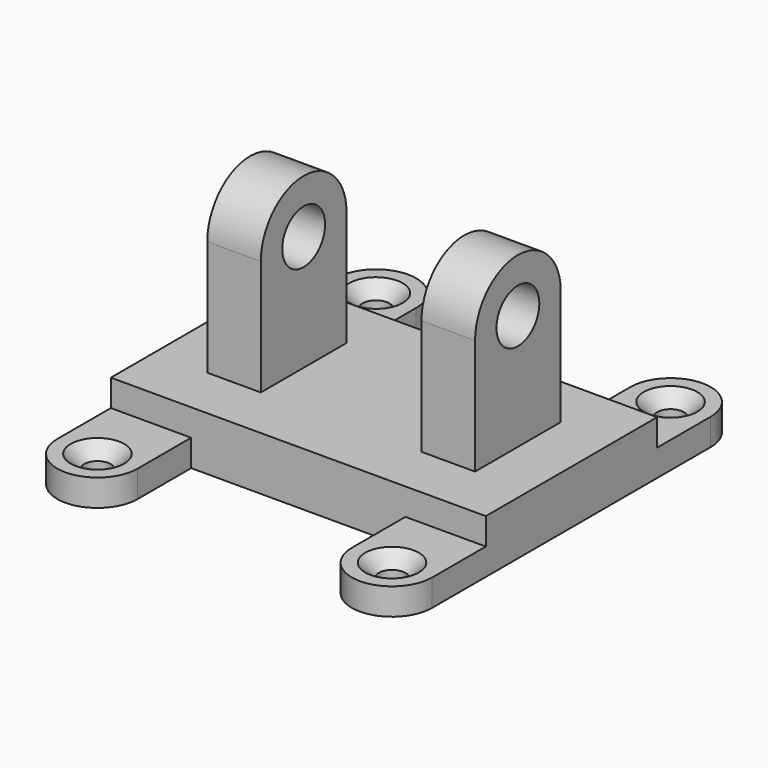
from build123d import *

# Parameters (mm, degrees)
F0_W           = 88.9
F0_H           = 12.7
F1_DEPTH       = 50.8
F2_W           = 19.05
F2_H           = 15.875
F3_DEPTH       = 6.35
F5_START       = 12.7
F4_R           = 6.35
F5_DEPTH       = 63.5
F6_W           = 38.1
F6_H           = 44.45
F7_DEPTH       = 50.8
F9_D           = 6.35
F9_CSINK_D     = 12.7
F9_CSINK_ANGLE = 90


with BuildPart() as f1:
    # F0 (on Front) → F1 (new body)
    with BuildSketch(Plane.XZ):
        with Locations((44.45, 6.35)):
            Rectangle(F0_W, F0_H)
    extrude(amount=F1_DEPTH)

    # F2 (on Top) → F3 (join)
    with BuildSketch(Plane.XY):
        with Locations((79.375, 7.9375)):
            Rectangle(F2_W, F2_H)
        with Locations((79.375, -58.7375)):
            Rectangle(F2_W, F2_H)
        with Locations((9.525, -58.7375)):
            Rectangle(F2_W, F2_H)
        with Locations((9.525, 7.9375)):
            Rectangle(F2_W, F2_H)
        with BuildLine():
            ThreePointArc((19.05, 15.875), (9.525, 25.4), (0, 15.875))
            Line((0, 15.875), (19.05, 15.875))
        make_face()
        with BuildLine():
            Line((19.05, -66.675), (0, -66.675))
            ThreePointArc((0, -66.675), (9.525, -76.2), (19.05, -66.675))
        make_face()
        with BuildLine():
            ThreePointArc((88.9, 15.875), (79.375, 25.4), (69.85, 15.875))
            Line((69.85, 15.875), (88.9, 15.875))
        make_face()
        with BuildLine():
            Line((88.9, -66.675), (69.85, -66.675))
            ThreePointArc((69.85, -66.675), (79.375, -76.2), (88.9, -66.675))
        make_face()
    extrude(amount=F3_DEPTH)

    # F4 (on Right) → F5 (join)
    with BuildSketch(Plane.YZ.offset(F5_START)):
        Polygon((-50.8, 0), (0, 0), (0, 12.5690720878), (-12.7, 12.5690720878), (-38.1, 12.5690720878), (-50.8, 12.5690720878), align=None)
        with BuildLine():
            Line((-38.1, 12.5690720878), (-12.7, 12.5690720878))
            Line((-12.7, 12.5690720878), (-12.7, 40.0571599603))
            ThreePointArc((-12.7, 40.0571599603), (-25.4, 52.7571599603), (-38.1, 40.0571599603))
            Line((-38.1, 40.0571599603), (-38.1, 12.5690720878))
        make_face()
        with Locations((-25.4, 40.0571599603)):
            Circle(F4_R, mode=Mode.SUBTRACT)
    extrude(amount=F5_DEPTH)

    # F6 (on Front) → F7 (cut)
    with BuildSketch(Plane.XZ):
        with Locations((44.45, 34.925)):
            Rectangle(F6_W, F6_H)
    extrude(amount=F7_DEPTH, mode=Mode.SUBTRACT)

    # F9 (through all)
    with Locations(Plane.XY.offset(6.35)):
        with Locations((9.525, -66.675), (79.375, -66.675), (9.525, 15.875), (79.375, 15.875)):
            CounterSinkHole(F9_D / 2, F9_CSINK_D / 2, counter_sink_angle=F9_CSINK_ANGLE)


solid = f1.part
